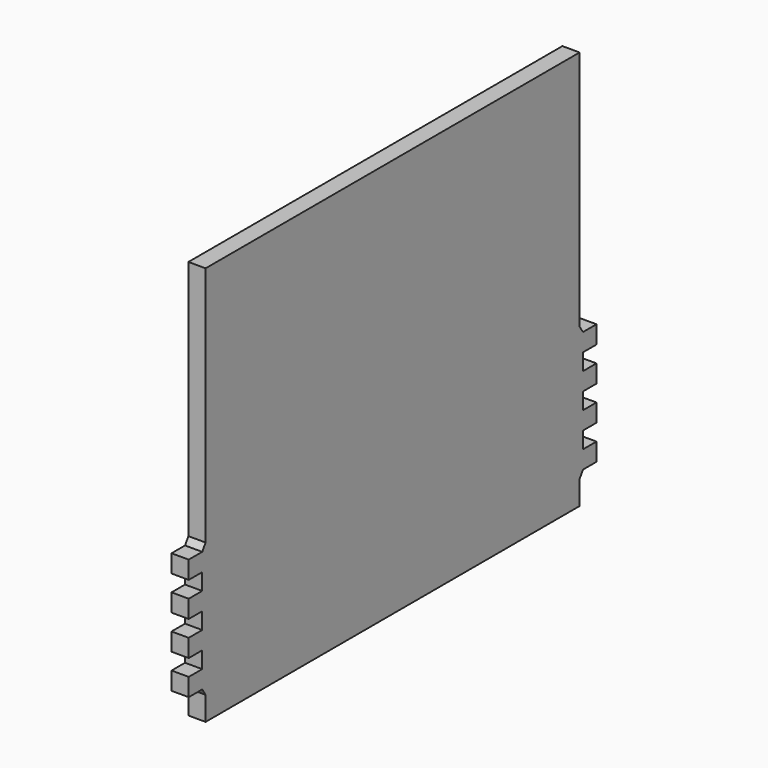
from build123d import *

# Parameters (mm, degrees)
F1_DEPTH = 5.3


with BuildPart() as f1:
    # F0 (on Right) → F1 (new body)
    with BuildSketch(Plane.YZ):
        Polygon((-72, 20.65), (-73.3, 18.65), (-78.5, 18.65), (-78.5, 13.15), (-73.3, 13.15), (-73.3, 8.05), (-78.5, 8.05), (-78.5, 2.55), (-73.3, 2.55), (-73.3, -2.55), (-78.5, -2.55), (-78.5, -8.05), (-73.3, -8.05), (-73.3, -13.15), (-78.5, -13.15), (-78.5, -18.65), (-73.3, -18.65), (-72, -20.65), (-72, -28), (72, -28), (72, -20.65), (73.3, -18.65), (78.5, -18.65), (78.5, -13.15), (73.3, -13.15), (73.3, -8.05), (78.5, -8.05), (78.5, -2.55), (73.3, -2.55), (73.3, 2.55), (78.5, 2.55), (78.5, 8.05), (73.3, 8.05), (73.3, 13.15), (78.5, 13.15), (78.5, 18.65), (73.3, 18.65), (72, 20.65), (72, 95), (-72, 95), align=None)
    extrude(amount=F1_DEPTH)


solid = f1.part
